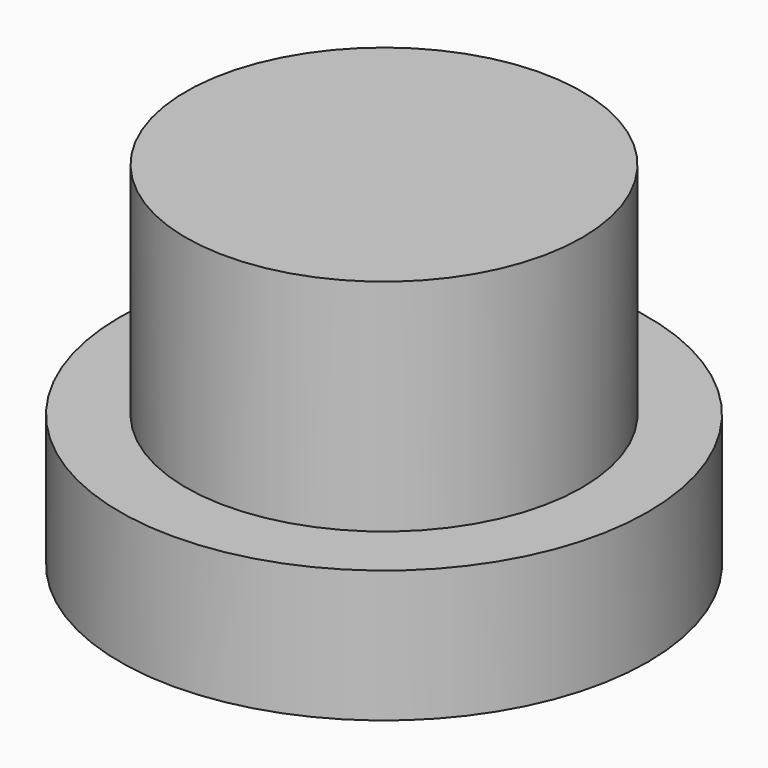
from build123d import *

# Parameters (mm, degrees)
CYLINDER_R        = 12
CYLINDER_DEPTH    = 6
CYLINDER001_R     = 9
CYLINDER001_DEPTH = 16


with BuildPart() as cylinder:
    # Cylinder → Cylinder (new body)
    with BuildSketch(Plane.XY):
        Circle(CYLINDER_R)
    extrude(amount=CYLINDER_DEPTH)


with BuildPart() as fusion:
    # Cylinder001 → Cylinder001 (new body)
    with BuildSketch(Plane.XY):
        Circle(CYLINDER001_R)
    extrude(amount=CYLINDER001_DEPTH)

    # Fusion: union Cylinder
    add(cylinder.part)


solid = fusion.part
